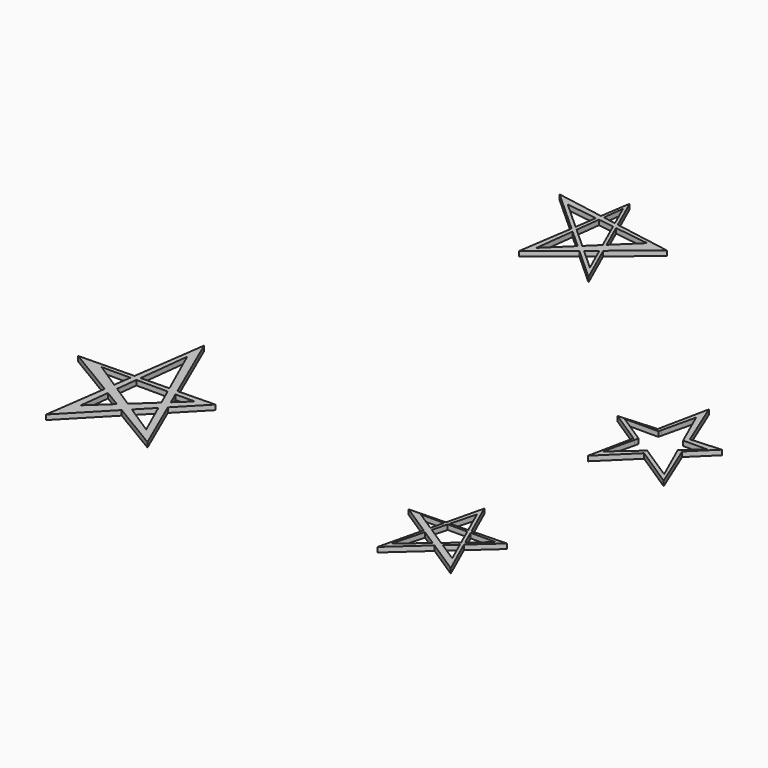
from build123d import *

# Parameters (mm, degrees)
F1_DEPTH = 0.5
F2_DEPTH = 0.5
F3_DEPTH = 0.5
F4_DEPTH = 0.5


with BuildPart() as f1:
    # F0 (on Top) → F1 (new body)
    with BuildSketch(Plane.XY):
        Polygon((-19.6167158214, 38.774628421), (-19.5352793666, 39.3164274172), (-24.4169946969, 40.1676073624), (-20.0072566577, 36.176349387), (-19.9430271905, 36.6036698165), (-22.8393096477, 39.2250977457), align=None)
        Polygon((-19.2672995463, 38.7257853704), (-19.2019097122, 39.2583008069), (-19.5352793666, 39.3164274172), (-19.6167158214, 38.774628421), align=None)
        Polygon((-19.2019097122, 39.2583008069), (-18.9428310841, 41.3681603968), (-17.8985916241, 39.0310531811), (-17.5501562208, 38.9702996944), (-19.0745089203, 42.3819459975), (-19.5352793666, 39.3164274172), align=None)
        Polygon((-17.5501562208, 38.9702996944), (-17.8985916241, 39.0310531811), (-17.6619287146, 38.5013790836), (-17.3192348579, 38.4534757243), align=None)
        Polygon((-17.6619287146, 38.5013790836), (-17.8985916241, 39.0310531811), (-19.2019097122, 39.2583008069), (-19.2672995463, 38.7257853704), align=None)
        Polygon((-11.7486538365, 37.9587449133), (-17.5501562208, 38.9702996944), (-17.3192348579, 38.4534757243), (-13.7800006196, 37.9587449133), (-16.0985169635, 35.7213929896), (-15.6711739502, 34.7649586869), align=None)
        Polygon((-17.3192348579, 38.4534757243), (-17.6619287146, 38.5013790836), (-16.3230122226, 35.5047566474), (-16.0985169635, 35.7213929896), align=None)
        Polygon((-16.0985169635, 35.7213929896), (-16.3230122226, 35.5047566474), (-15.9067585949, 34.573141444), (-15.6711739502, 34.7649586869), align=None)
        Polygon((-15.6711739502, 34.7649586869), (-15.9067585949, 34.573141444), (-14.6894223923, 31.8486272574), (-16.850563786, 33.8046783304), (-17.1329166357, 33.5747815762), (-13.7857930403, 30.545296916), align=None)
        Polygon((-15.9067585949, 34.573141444), (-16.3230122226, 35.5047566474), (-17.487427419, 34.3811041934), (-16.850563786, 33.8046783304), align=None)
        Polygon((-20.1117750257, 31.8486272574), (-19.623056132, 35.828609136), (-20.0072566577, 36.176349387), (-20.8536460996, 30.545296916), (-17.1329166357, 33.5747815762), (-17.7470157672, 34.1306032677), align=None)
        Polygon((-19.569407656, 36.2655064304), (-19.2672995463, 38.7257853704), (-19.6167158214, 38.774628421), (-19.9430271905, 36.6036698165), align=None)
        Polygon((-19.623056132, 35.828609136), (-19.569407656, 36.2655064304), (-19.9430271905, 36.6036698165), (-20.0072566577, 36.176349387), align=None)
        Polygon((-17.487427419, 34.3811041934), (-19.569407656, 36.2655064304), (-19.623056132, 35.828609136), (-17.7470157672, 34.1306032677), align=None)
        Polygon((-16.850563786, 33.8046783304), (-17.487427419, 34.3811041934), (-17.7470157672, 34.1306032677), (-17.1329166357, 33.5747815762), align=None)
    extrude(amount=F1_DEPTH)


with BuildPart() as f2:
    # F0 (on Top) → F2 (new body)
    with BuildSketch(Plane.XY):
        Polygon((9.727650322, -9.1974353418), (6.2263924098, -9.2991656192), (6.3452222104, -9.5651180134), (8.8952556252, -9.5651180134), (7.0487103065, -11.1395912723), (7.1981960204, -11.4741545155), align=None)
        Polygon((7.1981960204, -11.4741545155), (6.9575831839, -11.6907260732), (7.9428590834, -13.8958672333), (5.9496410632, -12.5979577836), (5.4620956469, -13.0367891934), (8.8952556252, -15.2723352968), align=None)
        Polygon((2.5960605126, -14.9361826479), (3.4516637515, -11.7276707083), (3.1787102129, -11.5499335147), (2.1001494024, -16.0628203303), (5.4620956469, -13.0367891934), (5.1001133386, -12.8010797758), align=None)
        Polygon((3.6530727004, -9.5651180134), (3.6990843002, -9.3725974433), (0, -9.4800756359), (3.1787102129, -11.5499335147), (3.3351218093, -10.8954800758), (1.2920658497, -9.5651180134), align=None)
        Polygon((4.0826552732, -9.3614526541), (4.768196959, -6.7906714976), (5.8933373326, -9.3088426514), (6.2263924098, -9.2991656192), (4.591259174, -5.6395819411), (3.6990843002, -9.3725974433), align=None)
        Polygon((6.2263924098, -9.2991656192), (5.8933373326, -9.3088426514), (6.0078433527, -9.5651180134), (6.3452222104, -9.5651180134), align=None)
        Polygon((4.0283445073, -9.5651180134), (4.0826552732, -9.3614526541), (3.6990843002, -9.3725974433), (3.6530727004, -9.5651180134), align=None)
        Polygon((3.4516637515, -11.7276707083), (3.6235053597, -11.0832647192), (3.3351218093, -10.8954800758), (3.1787102129, -11.5499335147), align=None)
        Polygon((5.9496410632, -12.5979577836), (5.6030339038, -12.3722600912), (5.1001133386, -12.8010797758), (5.4620956469, -13.0367891934), align=None)
        Polygon((7.0487103065, -11.1395912723), (6.8044055273, -11.3478999111), (6.9575831839, -11.6907260732), (7.1981960204, -11.4741545155), align=None)
        Polygon((6.3452222104, -9.5651180134), (6.0078433527, -9.5651180134), (6.8044055273, -11.3478999111), (7.0487103065, -11.1395912723), align=None)
        Polygon((6.9575831839, -11.6907260732), (6.8044055273, -11.3478999111), (5.6030339038, -12.3722600912), (5.9496410632, -12.5979577836), align=None)
        Polygon((5.6030339038, -12.3722600912), (3.6235053597, -11.0832647192), (3.4516637515, -11.7276707083), (5.1001133386, -12.8010797758), align=None)
        Polygon((3.6235053597, -11.0832647192), (4.0283445073, -9.5651180134), (3.6530727004, -9.5651180134), (3.3351218093, -10.8954800758), align=None)
        Polygon((6.0078433527, -9.5651180134), (5.8933373326, -9.3088426514), (4.0826552732, -9.3614526541), (4.0283445073, -9.5651180134), align=None)
    extrude(amount=F2_DEPTH)


with BuildPart() as f3:
    # F0 (on Top) → F3 (new body)
    with BuildSketch(Plane.XY):
        Polygon((7.1491269104, 13.6237768702), (7.9428590834, 17.0151796192), (9.3935150739, 13.7684735591), (9.8902208701, 13.8004963996), (7.8531634063, 18.7569092959), (6.7921524895, 13.6007625727), align=None)
        Polygon((9.8902208701, 13.8004963996), (9.3935150739, 13.7684735591), (9.5967889834, 13.313527219), (10.0903624291, 13.313527219), align=None)
        Polygon((12.9811568186, 13.9997703955), (9.8902208701, 13.8004963996), (10.0903624291, 13.313527219), (12.034160085, 13.313527219), (10.6044977469, 12.0625723662), (10.7146382492, 11.7945868941), align=None)
        Polygon((10.6044977469, 12.0625723662), (10.2818628483, 11.7802667606), (10.4085335129, 11.4967657673), (10.7146382492, 11.7945868941), align=None)
        Polygon((10.7146382492, 11.7945868941), (10.4085335129, 11.4967657673), (12.034160085, 7.8584589064), (8.8201110132, 9.9513281359), (8.5430646382, 9.6817790117), (12.6973846927, 6.9703194313), align=None)
        Polygon((8.8201110132, 9.9513281359), (8.4597920659, 10.1859544347), (8.1653433701, 9.9283117626), (8.5430646382, 9.6817790117), align=None)
        Polygon((5.7997978292, 7.8584589064), (6.5335041921, 10.993387615), (6.2885204346, 11.1532846734), (5.3455550224, 6.5707983449), (8.5430646382, 9.6817790117), (8.1653433701, 9.9283117626), align=None)
        Polygon((6.5335041921, 10.993387615), (6.6242644754, 11.3811817409), (6.3695467247, 11.5470444675), (6.2885204346, 11.1532846734), align=None)
        Polygon((6.7330463658, 13.313527219), (6.7921524895, 13.6007625727), (2.921034582, 13.3511899039), (6.2885204346, 11.1532846734), (6.3695467247, 11.5470444675), (3.6567340139, 13.313527219), align=None)
        Polygon((7.0765153252, 13.313527219), (7.1491269104, 13.6237768702), (6.7921524895, 13.6007625727), (6.7330463658, 13.313527219), align=None)
    extrude(amount=F3_DEPTH)


with BuildPart() as f4:
    # F0 (on Top) → F4 (new body)
    with BuildSketch(Plane.XY):
        Polygon((-23.1763347983, -5.0166766159), (-26.9692986834, -5.0918713644), (-26.7378190997, -5.624759172), (-24.7859191842, -5.624759172), (-26.1768325942, -6.9162029543), (-25.8178103555, -7.7427059688), align=None)
        Polygon((-26.1768325942, -6.9162029543), (-26.7286486181, -7.428556468), (-26.345130752, -8.2869059238), (-25.8178103555, -7.7427059688), align=None)
        Polygon((-26.345130752, -8.2869059238), (-26.7286486181, -7.428556468), (-28.6803354887, -9.2406706195), (-27.8151896014, -9.8040214478), align=None)
        Polygon((-27.8151896014, -9.8040214478), (-28.6803354887, -9.2406706195), (-29.3117399448, -9.8269208872), (-28.3789852405, -10.38586422), align=None)
        Polygon((-31.4115546644, -11.7765696891), (-31.064171377, -8.7767949957), (-31.6956915622, -8.3983632435), (-32.5808562338, -14.7222373635), (-28.3789852405, -10.38586422), (-29.3117399448, -9.8269208872), align=None)
        Polygon((-28.6803354887, -9.2406706195), (-30.9469702048, -7.7647223854), (-31.064171377, -8.7767949957), (-29.3117399448, -9.8269208872), align=None)
        Polygon((-31.064171377, -8.7767949957), (-30.9469702048, -7.7647223854), (-31.5518666652, -7.3708363057), (-31.6956915622, -8.3983632435), align=None)
        Polygon((-31.3074649324, -5.624759172), (-31.2447395983, -5.1766311232), (-36.8854478002, -5.2884570323), (-31.6956915622, -8.3983632435), (-31.5518666652, -7.3708363057), (-34.2333421781, -5.624759172), align=None)
        Polygon((-30.9469702048, -7.7647223854), (-30.6991557748, -5.624759172), (-31.3074649324, -5.624759172), (-31.5518666652, -7.3708363057), align=None)
        Polygon((-30.6458863142, -5.164758977), (-30.0477910787, 0), (-27.7656455223, -5.1076587808), (-26.9692986834, -5.0918713644), (-30.1938373595, 2.3313204292), (-31.2447395983, -5.1766311232), align=None)
        Polygon((-25.8178103555, -7.7427059688), (-26.345130752, -8.2869059238), (-24.7859191842, -11.7765696891), (-27.8151896014, -9.8040214478), (-28.3789852405, -10.38586422), (-23.3643334359, -13.3908409625), align=None)
        Polygon((-26.9692986834, -5.0918713644), (-27.7656455223, -5.1076587808), (-27.5346006521, -5.624759172), (-26.7378190997, -5.624759172), align=None)
        Polygon((-26.7378190997, -5.624759172), (-27.5346006521, -5.624759172), (-26.7286486181, -7.428556468), (-26.1768325942, -6.9162029543), align=None)
        Polygon((-27.5346006521, -5.624759172), (-27.7656455223, -5.1076587808), (-30.6458863142, -5.164758977), (-30.6991557748, -5.624759172), align=None)
        Polygon((-30.6991557748, -5.624759172), (-30.6458863142, -5.164758977), (-31.2447395983, -5.1766311232), (-31.3074649324, -5.624759172), align=None)
    extrude(amount=F4_DEPTH)


solid = Compound([f1.part, f2.part, f3.part, f4.part])
